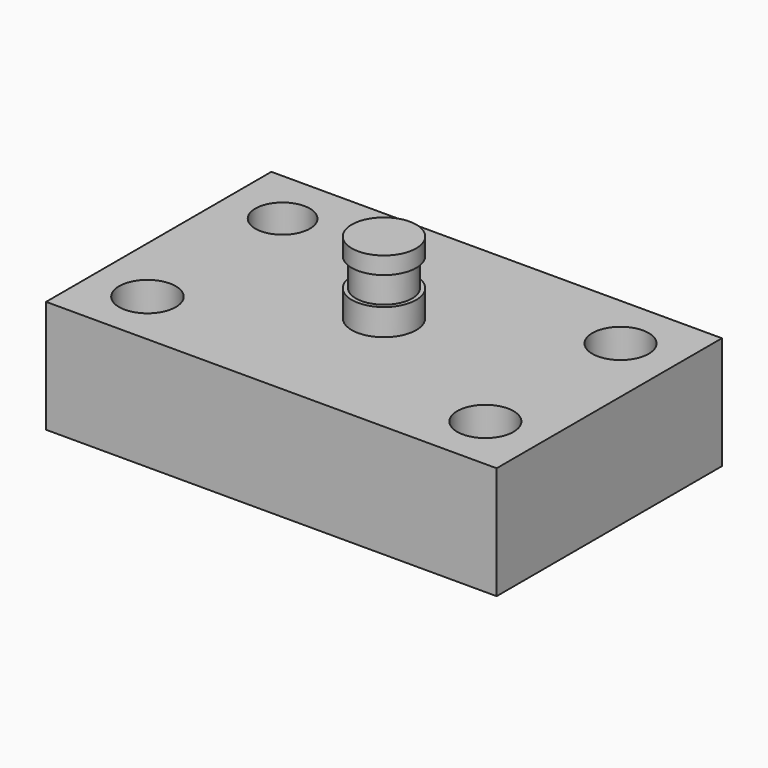
from build123d import *

# Parameters (mm, degrees)
F0_W     = 101.6
F0_H     = 63.5
F1_DEPTH = 25.4
F2_R     = 6.35
F2_R_2   = 6.1485324999
F2_R_3   = 6.390422985
F3_DEPTH = 25.401
F4_W     = 7.2657507844
F4_H     = 16.2262842059
F6_W     = 4.8879137634
F6_H     = 6.35


with BuildPart() as f1:
    # F0 (on Top) → F1 (new body)
    with BuildSketch(Plane.XY):
        Rectangle(F0_W, F0_H)
    extrude(amount=F1_DEPTH)

    # F2 (on Top) → F3 (cut, through all)
    with BuildSketch(Plane.XY):
        with Locations((38.1, -19.05)):
            Circle(F2_R)
        with Locations((38.1, 19.05)):
            Circle(F2_R)
        with Locations((-38.1, 19.05)):
            Circle(F2_R_2)
        with Locations((-38.1, -19.05)):
            Circle(F2_R_3)
    extrude(amount=F3_DEPTH, mode=Mode.SUBTRACT)


with BuildPart() as f5:
    # F4 (on Right) → F5 (revolve)
    with BuildSketch(Plane.YZ):
        with Locations((-3.6328753922, 33.875156194)):
            Rectangle(F4_W, F4_H)
    revolve(axis=Axis((0, 0, 33.875156194), (0, 0, 1)))

    # F6 (on Front) → F7 (revolve, cut)
    with BuildSketch(Plane.XZ):
        with Locations((-8.7939568817, 34.925)):
            Rectangle(F6_W, F6_H)
    revolve(axis=Axis((0, 0, 41.9882982969), (0, 0, -1)), mode=Mode.SUBTRACT)


solid = Compound([f1.part, f5.part])
